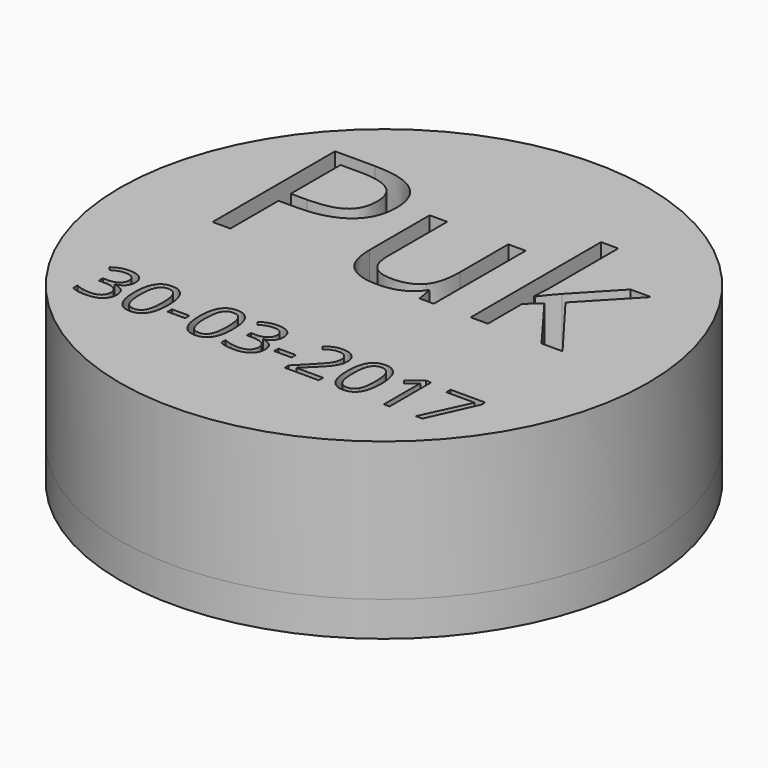
from build123d import *

# Parameters (mm, degrees)
F0_R     = 38
F0_W     = 2.5069546172
F0_H     = 0.776273431
F1_DEPTH = 20
F2_DEPTH = 20
F3_R     = 38
F4_DEPTH = 5


with BuildPart() as f1:
    # F0 (on Top) → F1 (new body)
    with BuildSketch(Plane.XY):
        Circle(F0_R)
        with Locations((-13.714708701, -19.8197923166)):
            Rectangle(F0_W, F0_H, mode=Mode.SUBTRACT)
        with BuildLine():
            add(Edge.make_bspline(
                [(-22.8224388715, -15.5478370563), (-22.2193969851, -16.0454691821), (-22.2193969851, -16.913261165)],
                knots=[0, 0, 0, 1, 1, 1], degree=2))
            add(Edge.make_bspline(
                [(-22.2193969851, -16.913261165), (-22.2193969851, -17.6290669813), (-22.6206077794, -18.083391221)],
                knots=[0, 0, 0, 1, 1, 1], degree=2))
            add(Edge.make_bspline(
                [(-22.6206077794, -18.083391221), (-23.0218185737, -18.5377154606), (-23.7572355084, -18.6913358869)],
                knots=[0, 0, 0, 1, 1, 1], degree=2))
            Line((-23.7572355084, -18.6913358869), (-23.7572355084, -18.7321923833))
            add(Edge.make_bspline(
                [(-23.7572355084, -18.7321923833), (-22.8583925883, -18.8433220534), (-22.4244965968, -19.3033662025)],
                knots=[0, 0, 0, 1, 1, 1], degree=2))
            add(Edge.make_bspline(
                [(-22.4244965968, -19.3033662025), (-21.9906006054, -19.7634103516), (-21.9906006054, -20.5086328454)],
                knots=[0, 0, 0, 1, 1, 1], degree=2))
            add(Edge.make_bspline(
                [(-21.9906006054, -20.5086328454), (-21.9906006054, -21.5758045305), (-22.7309203196, -22.1510639994)],
                knots=[0, 0, 0, 1, 1, 1], degree=2))
            add(Edge.make_bspline(
                [(-22.7309203196, -22.1510639994), (-23.4712400338, -22.7263234683), (-24.8342127526, -22.7263234683)],
                knots=[0, 0, 0, 1, 1, 1], degree=2))
            add(Edge.make_bspline(
                [(-24.8342127526, -22.7263234683), (-25.4274490799, -22.7263234683), (-25.9201784261, -22.6364391763)],
                knots=[0, 0, 0, 1, 1, 1], degree=2))
            add(Edge.make_bspline(
                [(-25.9201784261, -22.6364391763), (-26.4129077723, -22.5465548842), (-26.8770375711, -22.3226612841)],
                knots=[0, 0, 0, 1, 1, 1], degree=2))
            Line((-26.8770375711, -22.3226612841), (-26.8770375711, -21.5153369159))
            add(Edge.make_bspline(
                [(-26.8770375711, -21.5153369159), (-26.3916623942, -21.7555731146), (-25.842551083, -21.8805939934)],
                knots=[0, 0, 0, 1, 1, 1], degree=2))
            add(Edge.make_bspline(
                [(-25.842551083, -21.8805939934), (-25.2934397718, -22.0056148723), (-24.8031618154, -22.0056148723)],
                knots=[0, 0, 0, 1, 1, 1], degree=2))
            add(Edge.make_bspline(
                [(-24.8031618154, -22.0056148723), (-22.8681981474, -22.0056148723), (-22.8681981474, -20.4890217271)],
                knots=[0, 0, 0, 1, 1, 1], degree=2))
            add(Edge.make_bspline(
                [(-22.8681981474, -20.4890217271), (-22.8681981474, -19.129317528), (-25.0025415177, -19.129317528)],
                knots=[0, 0, 0, 1, 1, 1], degree=2))
            Line((-25.0025415177, -19.129317528), (-25.7379584523, -19.129317528))
            Line((-25.7379584523, -19.129317528), (-25.7379584523, -18.4004376328))
            Line((-25.7379584523, -18.4004376328), (-24.9927359585, -18.4004376328))
            add(Edge.make_bspline(
                [(-24.9927359585, -18.4004376328), (-24.1200411961, -18.4004376328), (-23.6093349915, -18.0147523071)],
                knots=[0, 0, 0, 1, 1, 1], degree=2))
            add(Edge.make_bspline(
                [(-23.6093349915, -18.0147523071), (-23.0986287869, -17.6290669813), (-23.0986287869, -16.9443121022)],
                knots=[0, 0, 0, 1, 1, 1], degree=2))
            add(Edge.make_bspline(
                [(-23.0986287869, -16.9443121022), (-23.0986287869, -16.3984693107), (-23.4736914236, -16.0863256785)],
                knots=[0, 0, 0, 1, 1, 1], degree=2))
            add(Edge.make_bspline(
                [(-23.4736914236, -16.0863256785), (-23.8487540602, -15.7741820462), (-24.492652443, -15.7741820462)],
                knots=[0, 0, 0, 1, 1, 1], degree=2))
            add(Edge.make_bspline(
                [(-24.492652443, -15.7741820462), (-24.9829303994, -15.7741820462), (-25.4168263909, -15.9073742244)],
                knots=[0, 0, 0, 1, 1, 1], degree=2))
            add(Edge.make_bspline(
                [(-25.4168263909, -15.9073742244), (-25.8507223823, -16.0405664025), (-26.4080049928, -16.3984693107)],
                knots=[0, 0, 0, 1, 1, 1], degree=2))
            Line((-26.4080049928, -16.3984693107), (-26.8361810747, -15.8264783616))
            add(Edge.make_bspline(
                [(-26.8361810747, -15.8264783616), (-26.3769540555, -15.4636726738), (-25.7771806888, -15.2569388022)],
                knots=[0, 0, 0, 1, 1, 1], degree=2))
            add(Edge.make_bspline(
                [(-25.7771806888, -15.2569388022), (-25.1774073221, -15.0502049306), (-24.5122635613, -15.0502049306)],
                knots=[0, 0, 0, 1, 1, 1], degree=2))
            add(Edge.make_bspline(
                [(-24.5122635613, -15.0502049306), (-23.4254807579, -15.0502049306), (-22.8224388715, -15.5478370563)],
                knots=[0, 0, 0, 1, 1, 1], degree=2))
        make_face(mode=Mode.SUBTRACT)
        with BuildLine():
            add(Edge.make_bspline(
                [(-16.5485152891, -16.0250409339), (-15.9176909852, -17.0113167562), (-15.9176909852, -18.8792757702)],
                knots=[0, 0, 0, 1, 1, 1], degree=2))
            add(Edge.make_bspline(
                [(-15.9176909852, -18.8792757702), (-15.9176909852, -20.8158736981), (-16.5280870409, -21.7710985832)],
                knots=[0, 0, 0, 1, 1, 1], degree=2))
            add(Edge.make_bspline(
                [(-16.5280870409, -21.7710985832), (-17.1384830967, -22.7263234683), (-18.395228925, -22.7263234683)],
                knots=[0, 0, 0, 1, 1, 1], degree=2))
            add(Edge.make_bspline(
                [(-18.395228925, -22.7263234683), (-19.5996784379, -22.7263234683), (-20.2280513521, -21.7482189452)],
                knots=[0, 0, 0, 1, 1, 1], degree=2))
            add(Edge.make_bspline(
                [(-20.2280513521, -21.7482189452), (-20.8564242662, -20.7701144221), (-20.8564242662, -18.8792757702)],
                knots=[0, 0, 0, 1, 1, 1], degree=2))
            add(Edge.make_bspline(
                [(-20.8564242662, -18.8792757702), (-20.8564242662, -16.9296037635), (-20.2484796002, -15.9841844375)],
                knots=[0, 0, 0, 1, 1, 1], degree=2))
            add(Edge.make_bspline(
                [(-20.2484796002, -15.9841844375), (-19.6405349343, -15.0387651116), (-18.395228925, -15.0387651116)],
                knots=[0, 0, 0, 1, 1, 1], degree=2))
            add(Edge.make_bspline(
                [(-18.395228925, -15.0387651116), (-17.179339593, -15.0387651116), (-16.5485152891, -16.0250409339)],
                knots=[0, 0, 0, 1, 1, 1], degree=2))
        make_face(mode=Mode.SUBTRACT)
        with BuildLine():
            add(Edge.make_bspline(
                [(-7.2038174397, -16.0250409339), (-6.5729931358, -17.0113167562), (-6.5729931358, -18.8792757702)],
                knots=[0, 0, 0, 1, 1, 1], degree=2))
            add(Edge.make_bspline(
                [(-6.5729931358, -18.8792757702), (-6.5729931358, -20.8158736981), (-7.1833891915, -21.7710985832)],
                knots=[0, 0, 0, 1, 1, 1], degree=2))
            add(Edge.make_bspline(
                [(-7.1833891915, -21.7710985832), (-7.7937852473, -22.7263234683), (-9.0505310756, -22.7263234683)],
                knots=[0, 0, 0, 1, 1, 1], degree=2))
            add(Edge.make_bspline(
                [(-9.0505310756, -22.7263234683), (-10.2549805885, -22.7263234683), (-10.8833535026, -21.7482189452)],
                knots=[0, 0, 0, 1, 1, 1], degree=2))
            add(Edge.make_bspline(
                [(-10.8833535026, -21.7482189452), (-11.5117264168, -20.7701144221), (-11.5117264168, -18.8792757702)],
                knots=[0, 0, 0, 1, 1, 1], degree=2))
            add(Edge.make_bspline(
                [(-11.5117264168, -18.8792757702), (-11.5117264168, -16.9296037635), (-10.9037817508, -15.9841844375)],
                knots=[0, 0, 0, 1, 1, 1], degree=2))
            add(Edge.make_bspline(
                [(-10.9037817508, -15.9841844375), (-10.2958370849, -15.0387651116), (-9.0505310756, -15.0387651116)],
                knots=[0, 0, 0, 1, 1, 1], degree=2))
            add(Edge.make_bspline(
                [(-9.0505310756, -15.0387651116), (-7.8346417436, -15.0387651116), (-7.2038174397, -16.0250409339)],
                knots=[0, 0, 0, 1, 1, 1], degree=2))
        make_face(mode=Mode.SUBTRACT)
        with BuildLine():
            add(Edge.make_bspline(
                [(-1.5182274051, -15.5478370563), (-0.9151855187, -16.0454691821), (-0.9151855187, -16.913261165)],
                knots=[0, 0, 0, 1, 1, 1], degree=2))
            add(Edge.make_bspline(
                [(-0.9151855187, -16.913261165), (-0.9151855187, -17.6290669813), (-1.316396313, -18.083391221)],
                knots=[0, 0, 0, 1, 1, 1], degree=2))
            add(Edge.make_bspline(
                [(-1.316396313, -18.083391221), (-1.7176071073, -18.5377154606), (-2.453024042, -18.6913358869)],
                knots=[0, 0, 0, 1, 1, 1], degree=2))
            Line((-2.453024042, -18.6913358869), (-2.453024042, -18.7321923833))
            add(Edge.make_bspline(
                [(-2.453024042, -18.7321923833), (-1.5541811219, -18.8433220534), (-1.1202851304, -19.3033662025)],
                knots=[0, 0, 0, 1, 1, 1], degree=2))
            add(Edge.make_bspline(
                [(-1.1202851304, -19.3033662025), (-0.686389139, -19.7634103516), (-0.686389139, -20.5086328454)],
                knots=[0, 0, 0, 1, 1, 1], degree=2))
            add(Edge.make_bspline(
                [(-0.686389139, -20.5086328454), (-0.686389139, -21.5758045305), (-1.4267088532, -22.1510639994)],
                knots=[0, 0, 0, 1, 1, 1], degree=2))
            add(Edge.make_bspline(
                [(-1.4267088532, -22.1510639994), (-2.1670285674, -22.7263234683), (-3.5300012862, -22.7263234683)],
                knots=[0, 0, 0, 1, 1, 1], degree=2))
            add(Edge.make_bspline(
                [(-3.5300012862, -22.7263234683), (-4.1232376135, -22.7263234683), (-4.6159669597, -22.6364391763)],
                knots=[0, 0, 0, 1, 1, 1], degree=2))
            add(Edge.make_bspline(
                [(-4.6159669597, -22.6364391763), (-5.1086963059, -22.5465548842), (-5.5728261047, -22.3226612841)],
                knots=[0, 0, 0, 1, 1, 1], degree=2))
            Line((-5.5728261047, -22.3226612841), (-5.5728261047, -21.5153369159))
            add(Edge.make_bspline(
                [(-5.5728261047, -21.5153369159), (-5.0874509278, -21.7555731146), (-4.5383396166, -21.8805939934)],
                knots=[0, 0, 0, 1, 1, 1], degree=2))
            add(Edge.make_bspline(
                [(-4.5383396166, -21.8805939934), (-3.9892283054, -22.0056148723), (-3.498950349, -22.0056148723)],
                knots=[0, 0, 0, 1, 1, 1], degree=2))
            add(Edge.make_bspline(
                [(-3.498950349, -22.0056148723), (-1.563986681, -22.0056148723), (-1.563986681, -20.4890217271)],
                knots=[0, 0, 0, 1, 1, 1], degree=2))
            add(Edge.make_bspline(
                [(-1.563986681, -20.4890217271), (-1.563986681, -19.129317528), (-3.6983300513, -19.129317528)],
                knots=[0, 0, 0, 1, 1, 1], degree=2))
            Line((-3.6983300513, -19.129317528), (-4.4337469859, -19.129317528))
            Line((-4.4337469859, -19.129317528), (-4.4337469859, -18.4004376328))
            Line((-4.4337469859, -18.4004376328), (-3.6885244921, -18.4004376328))
            add(Edge.make_bspline(
                [(-3.6885244921, -18.4004376328), (-2.8158297297, -18.4004376328), (-2.3051235251, -18.0147523071)],
                knots=[0, 0, 0, 1, 1, 1], degree=2))
            add(Edge.make_bspline(
                [(-2.3051235251, -18.0147523071), (-1.7944173205, -17.6290669813), (-1.7944173205, -16.9443121022)],
                knots=[0, 0, 0, 1, 1, 1], degree=2))
            add(Edge.make_bspline(
                [(-1.7944173205, -16.9443121022), (-1.7944173205, -16.3984693107), (-2.1694799572, -16.0863256785)],
                knots=[0, 0, 0, 1, 1, 1], degree=2))
            add(Edge.make_bspline(
                [(-2.1694799572, -16.0863256785), (-2.5445425938, -15.7741820462), (-3.1884409766, -15.7741820462)],
                knots=[0, 0, 0, 1, 1, 1], degree=2))
            add(Edge.make_bspline(
                [(-3.1884409766, -15.7741820462), (-3.678718933, -15.7741820462), (-4.1126149245, -15.9073742244)],
                knots=[0, 0, 0, 1, 1, 1], degree=2))
            add(Edge.make_bspline(
                [(-4.1126149245, -15.9073742244), (-4.5465109159, -16.0405664025), (-5.1037935264, -16.3984693107)],
                knots=[0, 0, 0, 1, 1, 1], degree=2))
            Line((-5.1037935264, -16.3984693107), (-5.5319696083, -15.8264783616))
            add(Edge.make_bspline(
                [(-5.5319696083, -15.8264783616), (-5.0727425891, -15.4636726738), (-4.4729692224, -15.2569388022)],
                knots=[0, 0, 0, 1, 1, 1], degree=2))
            add(Edge.make_bspline(
                [(-4.4729692224, -15.2569388022), (-3.8731958557, -15.0502049306), (-3.2080520949, -15.0502049306)],
                knots=[0, 0, 0, 1, 1, 1], degree=2))
            add(Edge.make_bspline(
                [(-3.2080520949, -15.0502049306), (-2.1212692915, -15.0502049306), (-1.5182274051, -15.5478370563)],
                knots=[0, 0, 0, 1, 1, 1], degree=2))
        make_face(mode=Mode.SUBTRACT)
        with Locations((1.6097459569, -19.8197923166)):
            Rectangle(F0_W, F0_H, mode=Mode.SUBTRACT)
        with BuildLine():
            Line((8.7106050258, -21.8372861073), (8.7106050258, -22.6233650974))
            Line((8.7106050258, -22.6233650974), (3.802922682, -22.6233650974))
            Line((3.802922682, -22.6233650974), (3.802922682, -21.8928509424))
            Line((3.802922682, -21.8928509424), (5.7689372872, -19.917030778))
            add(Edge.make_bspline(
                [(5.7689372872, -19.917030778), (6.6677802073, -19.0067480389), (6.9537756819, -18.6186113234)],
                knots=[0, 0, 0, 1, 1, 1], degree=2))
            add(Edge.make_bspline(
                [(6.9537756819, -18.6186113234), (7.2397711565, -18.2304746079), (7.3827688938, -17.8627661406)],
                knots=[0, 0, 0, 1, 1, 1], degree=2))
            add(Edge.make_bspline(
                [(7.3827688938, -17.8627661406), (7.5257666311, -17.4950576732), (7.5257666311, -17.0717843709)],
                knots=[0, 0, 0, 1, 1, 1], degree=2))
            add(Edge.make_bspline(
                [(7.5257666311, -17.0717843709), (7.5257666311, -16.473645264), (7.1629609433, -16.1239136551)],
                knots=[0, 0, 0, 1, 1, 1], degree=2))
            add(Edge.make_bspline(
                [(7.1629609433, -16.1239136551), (6.8001552556, -15.7741820462), (6.1562568728, -15.7741820462)],
                knots=[0, 0, 0, 1, 1, 1], degree=2))
            add(Edge.make_bspline(
                [(6.1562568728, -15.7741820462), (5.6921270741, -15.7741820462), (5.2753908111, -15.9278024725)],
                knots=[0, 0, 0, 1, 1, 1], degree=2))
            add(Edge.make_bspline(
                [(5.2753908111, -15.9278024725), (4.8586545481, -16.0814228989), (4.3487654735, -16.485085083)],
                knots=[0, 0, 0, 1, 1, 1], degree=2))
            Line((4.3487654735, -16.485085083), (3.8993440134, -15.9081913543))
            add(Edge.make_bspline(
                [(3.8993440134, -15.9081913543), (4.9305619818, -15.0502049306), (6.1464513137, -15.0502049306)],
                knots=[0, 0, 0, 1, 1, 1], degree=2))
            add(Edge.make_bspline(
                [(6.1464513137, -15.0502049306), (7.1989146601, -15.0502049306), (7.796236637, -15.5886935527)],
                knots=[0, 0, 0, 1, 1, 1], degree=2))
            add(Edge.make_bspline(
                [(7.796236637, -15.5886935527), (8.3935586139, -16.1271821748), (8.3935586139, -17.0358306541)],
                knots=[0, 0, 0, 1, 1, 1], degree=2))
            add(Edge.make_bspline(
                [(8.3935586139, -17.0358306541), (8.3935586139, -17.7467336909), (7.9947992094, -18.4412941291)],
                knots=[0, 0, 0, 1, 1, 1], degree=2))
            add(Edge.make_bspline(
                [(7.9947992094, -18.4412941291), (7.5960398048, -19.1358545674), (6.5043542219, -20.198123473)],
                knots=[0, 0, 0, 1, 1, 1], degree=2))
            Line((6.5043542219, -20.198123473), (4.8700943671, -21.7964296109))
            Line((4.8700943671, -21.7964296109), (4.8700943671, -21.8372861073))
            Line((4.8700943671, -21.8372861073), (8.7106050258, -21.8372861073))
        make_face(mode=Mode.SUBTRACT)
        with BuildLine():
            add(Edge.make_bspline(
                [(14.1003940267, -16.0250409339), (14.7312183306, -17.0113167562), (14.7312183306, -18.8792757702)],
                knots=[0, 0, 0, 1, 1, 1], degree=2))
            add(Edge.make_bspline(
                [(14.7312183306, -18.8792757702), (14.7312183306, -20.8158736981), (14.1208222749, -21.7710985832)],
                knots=[0, 0, 0, 1, 1, 1], degree=2))
            add(Edge.make_bspline(
                [(14.1208222749, -21.7710985832), (13.5104262191, -22.7263234683), (12.2536803908, -22.7263234683)],
                knots=[0, 0, 0, 1, 1, 1], degree=2))
            add(Edge.make_bspline(
                [(12.2536803908, -22.7263234683), (11.0492308779, -22.7263234683), (10.4208579638, -21.7482189452)],
                knots=[0, 0, 0, 1, 1, 1], degree=2))
            add(Edge.make_bspline(
                [(10.4208579638, -21.7482189452), (9.7924850496, -20.7701144221), (9.7924850496, -18.8792757702)],
                knots=[0, 0, 0, 1, 1, 1], degree=2))
            add(Edge.make_bspline(
                [(9.7924850496, -18.8792757702), (9.7924850496, -16.9296037635), (10.4004297156, -15.9841844375)],
                knots=[0, 0, 0, 1, 1, 1], degree=2))
            add(Edge.make_bspline(
                [(10.4004297156, -15.9841844375), (11.0083743815, -15.0387651116), (12.2536803908, -15.0387651116)],
                knots=[0, 0, 0, 1, 1, 1], degree=2))
            add(Edge.make_bspline(
                [(12.2536803908, -15.0387651116), (13.4695697228, -15.0387651116), (14.1003940267, -16.0250409339)],
                knots=[0, 0, 0, 1, 1, 1], degree=2))
        make_face(mode=Mode.SUBTRACT)
        with BuildLine():
            Line((18.9018494799, -15.1564318211), (18.9018494799, -22.6233650974))
            Line((18.9018494799, -22.6233650974), (18.0749139934, -22.6233650974))
            Line((18.0749139934, -22.6233650974), (18.0749139934, -17.3022150104))
            add(Edge.make_bspline(
                [(18.0749139934, -17.3022150104), (18.0749139934, -16.6370712495), (18.1157704898, -16.0454691821)],
                knots=[0, 0, 0, 1, 1, 1], degree=2))
            add(Edge.make_bspline(
                [(18.1157704898, -16.0454691821), (18.0095435992, -16.1533303325), (17.8763514211, -16.2701799121)],
                knots=[0, 0, 0, 1, 1, 1], degree=2))
            add(Edge.make_bspline(
                [(17.8763514211, -16.2701799121), (17.7431592429, -16.3870294917), (16.6612792191, -17.2662612936)],
                knots=[0, 0, 0, 1, 1, 1], degree=2))
            Line((16.6612792191, -17.2662612936), (16.211857759, -16.6844647853))
            Line((16.211857759, -16.6844647853), (18.1876779234, -15.1564318211))
            Line((18.1876779234, -15.1564318211), (18.9018494799, -15.1564318211))
        make_face(mode=Mode.SUBTRACT)
        Polygon((23.62649472, -22.6233650974), (22.6867953035, -22.6233650974), (25.7804492085, -15.9376080317), (21.7111421702, -15.9376080317), (21.7111421702, -15.1564318211), (26.6792921286, -15.1564318211), (26.6792921286, -15.8362839207), align=None, mode=Mode.SUBTRACT)
        with BuildLine():
            add(Edge.make_bspline(
                [(-18.9491862716, 22.0274346966), (-10.6955272213, 22.0274346966), (-10.6955272213, 15.61060047)],
                knots=[0, 0, 0, 1, 1, 1], degree=2))
            add(Edge.make_bspline(
                [(-10.6955272213, 15.61060047), (-10.6955272213, 12.2647830746), (-12.978300329, 10.4641162199)],
                knots=[0, 0, 0, 1, 1, 1], degree=2))
            add(Edge.make_bspline(
                [(-12.978300329, 10.4641162199), (-15.2610734366, 8.6634493652), (-19.508429525, 8.6634493652)],
                knots=[0, 0, 0, 1, 1, 1], degree=2))
            Line((-19.508429525, 8.6634493652), (-22.1021611658, 8.6634493652))
            Line((-22.1021611658, 8.6634493652), (-22.1021611658, 0))
            Line((-22.1021611658, 0), (-24.6621453689, 0))
            Line((-24.6621453689, 0), (-24.6621453689, 22.0274346966))
            Line((-24.6621453689, 22.0274346966), (-18.9491862716, 22.0274346966))
        make_face(mode=Mode.SUBTRACT)
        with BuildLine():
            Line((-6.6410136342, 16.512139163), (-4.1099558063, 16.512139163))
            Line((-4.1099558063, 16.512139163), (-4.1099558063, 5.7997382228))
            add(Edge.make_bspline(
                [(-4.1099558063, 5.7997382228), (-4.1099558063, 3.779713023), (-3.1915433944, 2.786574142)],
                knots=[0, 0, 0, 1, 1, 1], degree=2))
            add(Edge.make_bspline(
                [(-3.1915433944, 2.786574142), (-2.2731309826, 1.7934352609), (-0.3157795957, 1.7934352609)],
                knots=[0, 0, 0, 1, 1, 1], degree=2))
            add(Edge.make_bspline(
                [(-0.3157795957, 1.7934352609), (2.2779520451, 1.7934352609), (3.4735755524, 3.2084171133)],
                knots=[0, 0, 0, 1, 1, 1], degree=2))
            add(Edge.make_bspline(
                [(3.4735755524, 3.2084171133), (4.6691990597, 4.6233989656), (4.6691990597, 7.8342266102)],
                knots=[0, 0, 0, 1, 1, 1], degree=2))
            Line((4.6691990597, 7.8342266102), (4.6691990597, 16.512139163))
            Line((4.6691990597, 16.512139163), (7.1713305124, 16.512139163))
            Line((7.1713305124, 16.512139163), (7.1713305124, 0))
            Line((7.1713305124, 0), (5.1079157498, 0))
            Line((5.1079157498, 0), (4.7463360601, 2.212867701))
            Line((4.7463360601, 2.212867701), (4.6113463093, 2.212867701))
            add(Edge.make_bspline(
                [(4.6113463093, 2.212867701), (3.8447973672, 0.993138881), (2.4804366713, 0.3447059708)],
                knots=[0, 0, 0, 1, 1, 1], degree=2))
            add(Edge.make_bspline(
                [(2.4804366713, 0.3447059708), (1.1160759755, -0.3037269393), (-0.6339697226, -0.3037269393)],
                knots=[0, 0, 0, 1, 1, 1], degree=2))
            add(Edge.make_bspline(
                [(-0.6339697226, -0.3037269393), (-3.6471338034, -0.3037269393), (-5.1440737188, 1.1281286319)],
                knots=[0, 0, 0, 1, 1, 1], degree=2))
            add(Edge.make_bspline(
                [(-5.1440737188, 1.1281286319), (-6.6410136342, 2.5599842031), (-6.6410136342, 5.7081380347)],
                knots=[0, 0, 0, 1, 1, 1], degree=2))
            Line((-6.6410136342, 5.7081380347), (-6.6410136342, 16.512139163))
        make_face(mode=Mode.SUBTRACT)
        with BuildLine():
            Line((14.827177809, 8.4513226139), (14.9477043722, 8.4513226139))
            add(Edge.make_bspline(
                [(14.9477043722, 8.4513226139), (15.5937267512, 9.372145557), (16.9195189467, 10.8618538786)],
                knots=[0, 0, 0, 1, 1, 1], degree=2))
            Line((16.9195189467, 10.8618538786), (22.2516141042, 16.512139163))
            Line((22.2516141042, 16.512139163), (25.2213886223, 16.512139163))
            Line((25.2213886223, 16.512139163), (18.5297538315, 9.4782089327))
            Line((18.5297538315, 9.4782089327), (25.6890316876, 0))
            Line((25.6890316876, 0), (22.6614044192, 0))
            Line((22.6614044192, 0), (16.8279187587, 7.805300235))
            Line((16.8279187587, 7.805300235), (14.9477043722, 6.1757811001))
            Line((14.9477043722, 6.1757811001), (14.9477043722, 0))
            Line((14.9477043722, 0), (12.4744992947, 0))
            Line((12.4744992947, 0), (12.4744992947, 23.4448270802))
            Line((12.4744992947, 23.4448270802), (14.9477043722, 23.4448270802))
            Line((14.9477043722, 23.4448270802), (14.9477043722, 11.011306817))
            add(Edge.make_bspline(
                [(14.9477043722, 11.011306817), (14.9477043722, 10.1869051245), (14.827177809, 8.4513226139)],
                knots=[0, 0, 0, 1, 1, 1], degree=2))
        make_face(mode=Mode.SUBTRACT)
    extrude(amount=F1_DEPTH)


with BuildPart() as f2:
    # F0 (on Top) → F2 (new body)
    with BuildSketch(Plane.XY):
        with BuildLine():
            Line((-22.1021611658, 19.8097459331), (-22.1021611658, 10.8618538786))
            Line((-22.1021611658, 10.8618538786), (-19.7928722142, 10.8618538786))
            add(Edge.make_bspline(
                [(-19.7928722142, 10.8618538786), (-16.3892020685, 10.8618538786), (-14.8681568405, 11.9610561353)],
                knots=[0, 0, 0, 1, 1, 1], degree=2))
            add(Edge.make_bspline(
                [(-14.8681568405, 11.9610561353), (-13.3471116125, 13.060258392), (-13.3471116125, 15.4900739068)],
                knots=[0, 0, 0, 1, 1, 1], degree=2))
            add(Edge.make_bspline(
                [(-13.3471116125, 15.4900739068), (-13.3471116125, 17.6740152326), (-14.7789671837, 18.7418805828)],
                knots=[0, 0, 0, 1, 1, 1], degree=2))
            add(Edge.make_bspline(
                [(-14.7789671837, 18.7418805828), (-16.2108227549, 19.8097459331), (-19.2384500233, 19.8097459331)],
                knots=[0, 0, 0, 1, 1, 1], degree=2))
            Line((-19.2384500233, 19.8097459331), (-22.1021611658, 19.8097459331))
        make_face()
    extrude(amount=F2_DEPTH)


with BuildPart() as f2b:
    # F0 (on Top) → F2, piece 2 (new body)
    with BuildSketch(Plane.XY):
        with BuildLine():
            add(Edge.make_bspline(
                [(-19.6152039065, -16.5120503706), (-19.9984378425, -17.249918695), (-19.9984378425, -18.8792757702)],
                knots=[0, 0, 0, 1, 1, 1], degree=2))
            add(Edge.make_bspline(
                [(-19.9984378425, -18.8792757702), (-19.9984378425, -20.5086328454), (-19.6152039065, -21.2522210793)],
                knots=[0, 0, 0, 1, 1, 1], degree=2))
            add(Edge.make_bspline(
                [(-19.6152039065, -21.2522210793), (-19.2319699706, -21.9958093132), (-18.395228925, -21.9958093132)],
                knots=[0, 0, 0, 1, 1, 1], degree=2))
            add(Edge.make_bspline(
                [(-18.395228925, -21.9958093132), (-17.5470480604, -21.9958093132), (-17.1670826441, -21.2424155202)],
                knots=[0, 0, 0, 1, 1, 1], degree=2))
            add(Edge.make_bspline(
                [(-17.1670826441, -21.2424155202), (-16.7871172279, -20.4890217271), (-16.7871172279, -18.8792757702)],
                knots=[0, 0, 0, 1, 1, 1], degree=2))
            add(Edge.make_bspline(
                [(-16.7871172279, -18.8792757702), (-16.7871172279, -17.2711640731), (-17.1670826441, -16.5226730597)],
                knots=[0, 0, 0, 1, 1, 1], degree=2))
            add(Edge.make_bspline(
                [(-17.1670826441, -16.5226730597), (-17.5470480604, -15.7741820462), (-18.395228925, -15.7741820462)],
                knots=[0, 0, 0, 1, 1, 1], degree=2))
            add(Edge.make_bspline(
                [(-18.395228925, -15.7741820462), (-19.2319699706, -15.7741820462), (-19.6152039065, -16.5120503706)],
                knots=[0, 0, 0, 1, 1, 1], degree=2))
        make_face()
    extrude(amount=F2_DEPTH)


with BuildPart() as f2c:
    # F0 (on Top) → F2, piece 3 (new body)
    with BuildSketch(Plane.XY):
        with BuildLine():
            add(Edge.make_bspline(
                [(-10.2705060571, -16.5120503706), (-10.6537399931, -17.249918695), (-10.6537399931, -18.8792757702)],
                knots=[0, 0, 0, 1, 1, 1], degree=2))
            add(Edge.make_bspline(
                [(-10.6537399931, -18.8792757702), (-10.6537399931, -20.5086328454), (-10.2705060571, -21.2522210793)],
                knots=[0, 0, 0, 1, 1, 1], degree=2))
            add(Edge.make_bspline(
                [(-10.2705060571, -21.2522210793), (-9.8872721212, -21.9958093132), (-9.0505310756, -21.9958093132)],
                knots=[0, 0, 0, 1, 1, 1], degree=2))
            add(Edge.make_bspline(
                [(-9.0505310756, -21.9958093132), (-8.2023502109, -21.9958093132), (-7.8223847947, -21.2424155202)],
                knots=[0, 0, 0, 1, 1, 1], degree=2))
            add(Edge.make_bspline(
                [(-7.8223847947, -21.2424155202), (-7.4424193785, -20.4890217271), (-7.4424193785, -18.8792757702)],
                knots=[0, 0, 0, 1, 1, 1], degree=2))
            add(Edge.make_bspline(
                [(-7.4424193785, -18.8792757702), (-7.4424193785, -17.2711640731), (-7.8223847947, -16.5226730597)],
                knots=[0, 0, 0, 1, 1, 1], degree=2))
            add(Edge.make_bspline(
                [(-7.8223847947, -16.5226730597), (-8.2023502109, -15.7741820462), (-9.0505310756, -15.7741820462)],
                knots=[0, 0, 0, 1, 1, 1], degree=2))
            add(Edge.make_bspline(
                [(-9.0505310756, -15.7741820462), (-9.8872721212, -15.7741820462), (-10.2705060571, -16.5120503706)],
                knots=[0, 0, 0, 1, 1, 1], degree=2))
        make_face()
    extrude(amount=F2_DEPTH)


with BuildPart() as f2d:
    # F0 (on Top) → F2, piece 4 (new body)
    with BuildSketch(Plane.XY):
        with BuildLine():
            add(Edge.make_bspline(
                [(11.0337054093, -16.5120503706), (10.6504714733, -17.249918695), (10.6504714733, -18.8792757702)],
                knots=[0, 0, 0, 1, 1, 1], degree=2))
            add(Edge.make_bspline(
                [(10.6504714733, -18.8792757702), (10.6504714733, -20.5086328454), (11.0337054093, -21.2522210793)],
                knots=[0, 0, 0, 1, 1, 1], degree=2))
            add(Edge.make_bspline(
                [(11.0337054093, -21.2522210793), (11.4169393452, -21.9958093132), (12.2536803908, -21.9958093132)],
                knots=[0, 0, 0, 1, 1, 1], degree=2))
            add(Edge.make_bspline(
                [(12.2536803908, -21.9958093132), (13.1018612555, -21.9958093132), (13.4818266717, -21.2424155202)],
                knots=[0, 0, 0, 1, 1, 1], degree=2))
            add(Edge.make_bspline(
                [(13.4818266717, -21.2424155202), (13.8617920879, -20.4890217271), (13.8617920879, -18.8792757702)],
                knots=[0, 0, 0, 1, 1, 1], degree=2))
            add(Edge.make_bspline(
                [(13.8617920879, -18.8792757702), (13.8617920879, -17.2711640731), (13.4818266717, -16.5226730597)],
                knots=[0, 0, 0, 1, 1, 1], degree=2))
            add(Edge.make_bspline(
                [(13.4818266717, -16.5226730597), (13.1018612555, -15.7741820462), (12.2536803908, -15.7741820462)],
                knots=[0, 0, 0, 1, 1, 1], degree=2))
            add(Edge.make_bspline(
                [(12.2536803908, -15.7741820462), (11.4169393452, -15.7741820462), (11.0337054093, -16.5120503706)],
                knots=[0, 0, 0, 1, 1, 1], degree=2))
        make_face()
    extrude(amount=F2_DEPTH)


with BuildPart() as f4:
    # F3 (on face) → F4 (new body)
    with BuildSketch(Plane.XY):
        Circle(F3_R)
    extrude(amount=-F4_DEPTH)


solid = Compound([f1.part, f2.part, f2b.part, f2c.part, f2d.part, f4.part])
